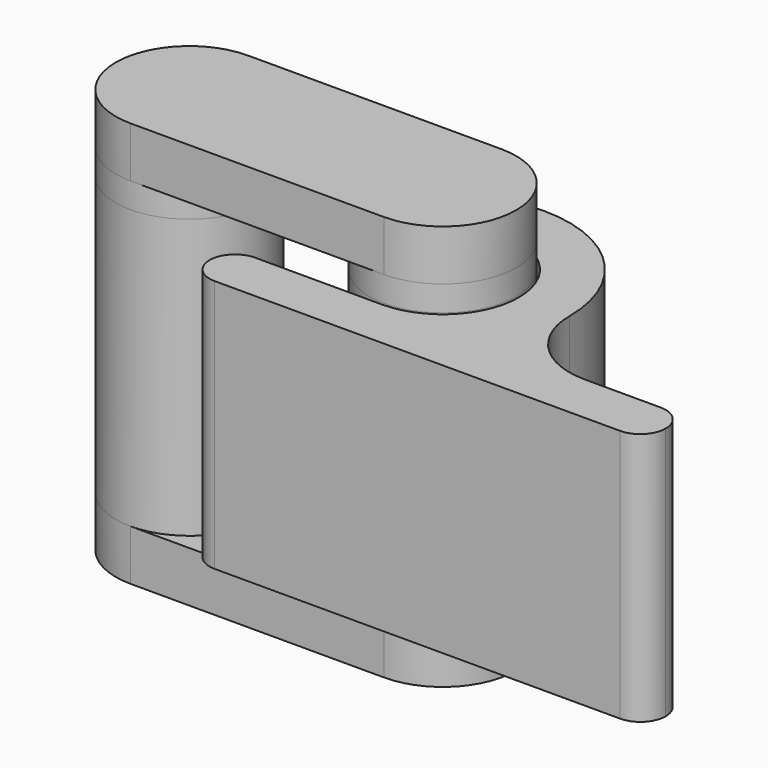
from build123d import *

# Parameters (mm, degrees)
F1_DEPTH      = 10
F2_R          = 2.9
F3_DEPTH      = 11
F3_DEPTH_BACK = 1
F5_DEPTH      = 2
F7_DEPTH      = 2


with BuildPart() as f1:
    # F0 (on Top) → F1 (new body)
    with BuildSketch(Plane.XY):
        with BuildLine():
            ThreePointArc((-1.4094542146, 2.648289791), (2.9107446962, 0.7263369146), (0, -3))
            Line((0, -3), (-5, -3))
            ThreePointArc((-5, -3), (-5.7071067812, -3.2928932188), (-6, -4))
            ThreePointArc((-6, -4), (-5.7071067812, -4.7071067812), (-5, -5))
            Line((-5, -5), (0, -5))
            Line((0, -5), (11, -5))
            ThreePointArc((11, -5), (11.7071067812, -4.7071067812), (12, -4))
            ThreePointArc((12, -4), (11.7071067812, -3.2928932188), (11, -3))
            Line((11, -3), (8, -3))
            ThreePointArc((8, -3), (5.8786796564, -2.1213203436), (5, 0))
            ThreePointArc((5, 0), (2.5743492587, 4.2863417846), (-2.3490903577, 4.4138163183))
            ThreePointArc((-2.3490903577, 4.4138163183), (-2.8648615599, 3.7002091465), (-2.616549623, 2.855462847))
            ThreePointArc((-2.616549623, 2.855462847), (-2.0484283781, 2.5454637808), (-1.4094542146, 2.648289791))
        make_face()
    extrude(amount=F1_DEPTH)


with BuildPart() as f3:
    # F2 (on face) → F3 (new body, two sides)
    with BuildSketch(Plane.XY.offset(10)) as f3_sk:
        Circle(F2_R)
    extrude(amount=-F3_DEPTH)
    extrude(f3_sk.sketch, amount=F3_DEPTH_BACK)



with BuildPart() as f3b:
    # F2 (on face) → F3, piece 2 (new body, two sides)
    with BuildSketch(Plane.XY.offset(10)) as f3_2_sk:
        with Locations((-10, 0)):
            Circle(F2_R)
    extrude(amount=-F3_DEPTH)
    extrude(f3_2_sk.sketch, amount=F3_DEPTH_BACK)


with BuildPart() as f3_1:
    add(f3.part)

    add(f3b.part)  # F5 merges F3b
    # F4 (on face) → F5 (join)
    with BuildSketch(Plane(origin=(0, 0, -1), x_dir=(1, 0, 0), z_dir=(0, 0, -1))):
        with BuildLine():
            Line((-10, -2.9), (0, -2.9))
            ThreePointArc((0, -2.9), (2.9, 0), (0, 2.9))
            Line((0, 2.9), (-10, 2.9))
            ThreePointArc((-10, 2.9), (-12.9, 0), (-10, -2.9))
        make_face()
    extrude(amount=F5_DEPTH)

    # F6 (on face) → F7 (join)
    with BuildSketch(Plane.XY.offset(11)):
        with BuildLine():
            Line((-10, -2.9), (0, -2.9))
            ThreePointArc((0, -2.9), (2.9, 0), (0, 2.9))
            Line((0, 2.9), (-10, 2.9))
            ThreePointArc((-10, 2.9), (-12.9, 0), (-10, -2.9))
        make_face()
    extrude(amount=F7_DEPTH)


solid = Compound([f1.part, f3_1.part])
